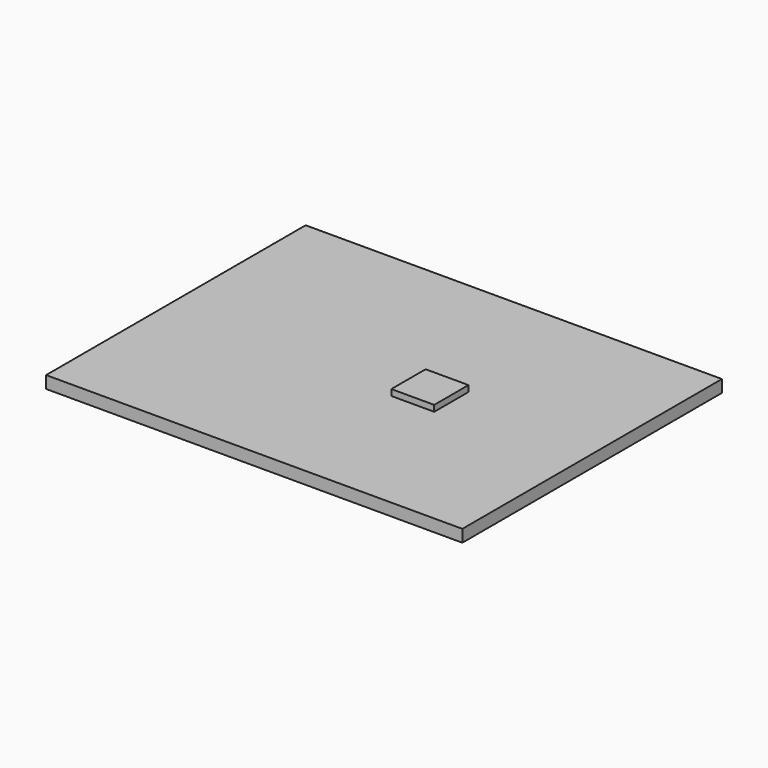
from build123d import *

# Parameters (mm, degrees)
F0_W     = 68
F0_H     = 53
F1_DEPTH = 2
F2_W     = 7
F2_H     = 7
F3_DEPTH = 3


with BuildPart() as f1:
    # F0 (on Top) → F1 (new body)
    with BuildSketch(Plane.XY):
        Rectangle(F0_W, F0_H)
    extrude(amount=F1_DEPTH)


with BuildPart() as f3:
    # F2 (on face) → F3 (new body)
    with BuildSketch(Plane.XY):
        with Locations((7.5, 0)):
            Rectangle(F2_W, F2_H)
    extrude(amount=F3_DEPTH)


solid = Compound([f1.part, f3.part])
